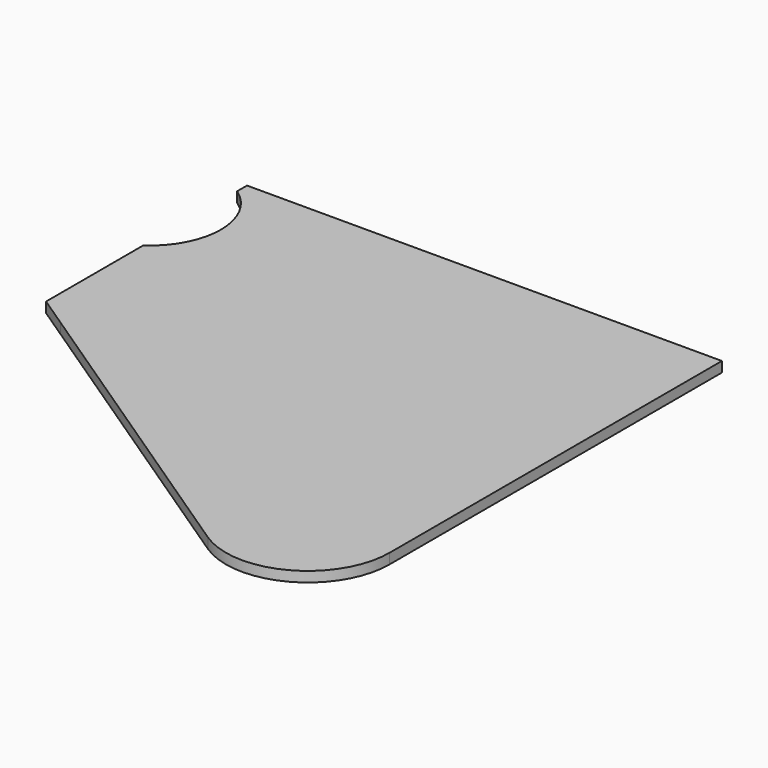
from build123d import *

# Parameters (mm, degrees)
F1_DEPTH = 1.5875


with BuildPart() as f1:
    # F0 (on Top) → F1 (new body)
    with BuildSketch(Plane.XY):
        with BuildLine():
            Line((6.35, 11.024493), (6.35, 9.119493))
            ThreePointArc((6.35, 9.119493), (11.1125, 0), (6.35, -9.119493))
            Line((6.35, -9.119493), (6.35, -27.931903))
            Line((6.35, -27.931903), (11.1125, -31.115))
            Line((11.1125, -31.115), (60.252885, -63.958801))
            ThreePointArc((60.252885, -63.958801), (73.29601, -64.600845), (80.01, -53.400055))
            Line((80.01, -53.400055), (80.01, 11.024493))
            Line((80.01, 11.024493), (6.35, 11.024493))
        make_face()
    extrude(amount=F1_DEPTH)


solid = f1.part
